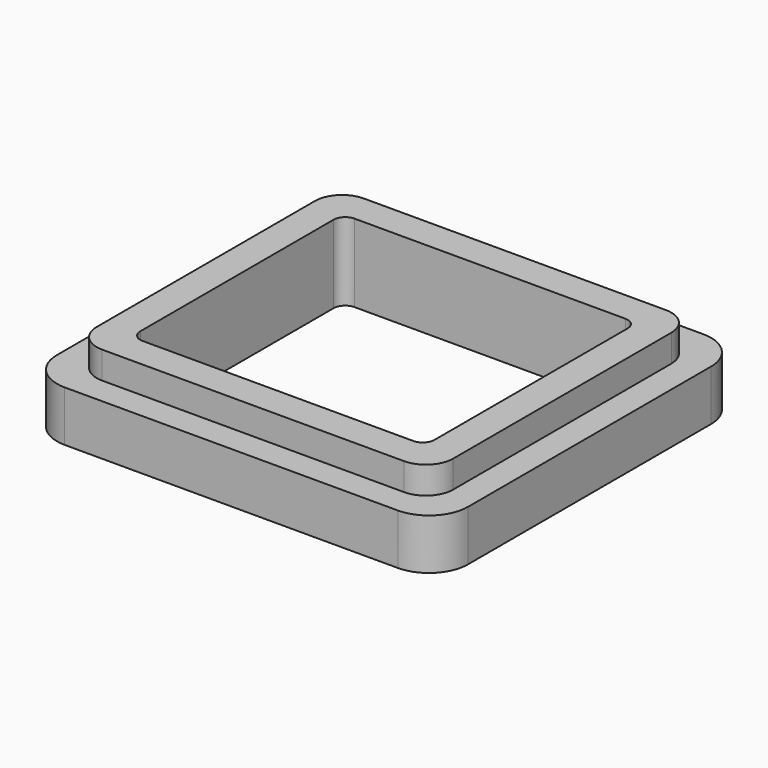
from build123d import *

# Parameters (mm, degrees)
F0_W     = 21.1
F0_H     = 19.6
F1_DEPTH = 4
F2_W     = 21.1
F2_H     = 19.6
F2_W_2   = 18.3
F2_H_2   = 16.8
F3_DEPTH = 1.4
F4_W     = 15.1
F4_H     = 13.6
F5_DEPTH = 25
F6_R     = 2
F7_R     = 0.6
F8_R     = 1.4


with BuildPart() as f1:
    # F0 (on Top) → F1 (new body)
    with BuildSketch(Plane.XY):
        with Locations((10.55, 9.8)):
            Rectangle(F0_W, F0_H)
    extrude(amount=F1_DEPTH)

    # F2 (on face) → F3 (cut)
    with BuildSketch(Plane.XY.offset(4)):
        with Locations((10.55, 9.8)):
            Rectangle(F2_W, F2_H)
        with Locations((10.55, 9.8)):
            Rectangle(F2_W_2, F2_H_2, mode=Mode.SUBTRACT)
    extrude(amount=-F3_DEPTH, mode=Mode.SUBTRACT)

    # F4 (on face) → F5 (cut)
    with BuildSketch(Plane.XY.offset(4)):
        with Locations((10.55, 9.8)):
            Rectangle(F4_W, F4_H)
    extrude(amount=-F5_DEPTH, mode=Mode.SUBTRACT)

    # F6
    f6_edges = [f1.edges().sort_by_distance(p)[0] for p in [
        (21.1, 19.6, 1.3),
        (21.1, 0, 1.3),
        (0, 0, 1.3),
        (0, 19.6, 1.3),
    ]]
    fillet(f6_edges, radius=F6_R)

    # F7
    f7_edges = [f1.edges().sort_by_distance(p)[0] for p in [
        (3, 16.6, 2),
        (18.1, 16.6, 2),
        (18.1, 3, 2),
        (3, 3, 2),
    ]]
    fillet(f7_edges, radius=F7_R)

    # F8
    f8_edges = [f1.edges().sort_by_distance(p)[0] for p in [
        (1.4, 1.4, 3.3),
        (19.7, 1.4, 3.3),
        (19.7, 18.2, 3.3),
        (1.4, 18.2, 3.3),
    ]]
    fillet(f8_edges, radius=F8_R)


solid = f1.part
